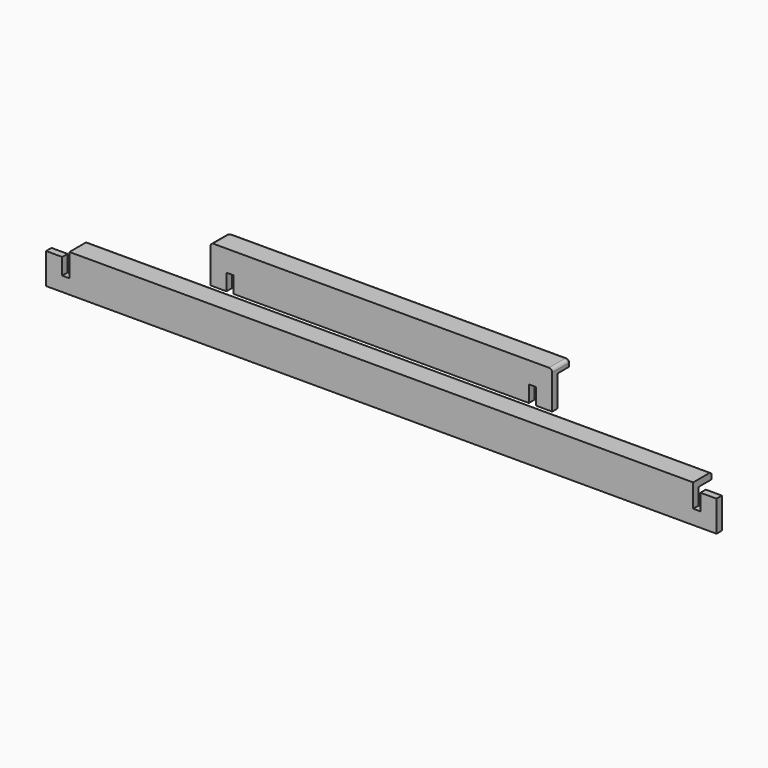
from build123d import *

# Parameters (mm, degrees)
F1_DEPTH = 1020
F2_W     = 22
F2_H     = 50
F3_DEPTH = 100
F5_DEPTH = 520
F6_W     = 22
F6_H     = 50
F7_DEPTH = 20.5
F9_R     = 10
F10_R    = 10


with BuildPart() as f1:
    # F0 (on Right) → F1 (new body)
    with BuildSketch(Plane.YZ):
        Polygon((70.25, 0), (0, 0), (0, -114.5), (20.5, -114.5), (20.5, -20.5), (70.25, -20.5), align=None)
    extrude(amount=F1_DEPTH)

    # F2 (on face) → F3 (cut)
    with BuildSketch(Plane(origin=(0, 70.25, 0), x_dir=(-1, 0, 0), z_dir=(0, 1, 0))):
        Polygon((-1020, 0), (-1020, -20.5), (-971, -20.5), (-949, -20.5), (-949, 0), align=None)
        with Locations((-960, -45.5)):
            Rectangle(F2_W, F2_H)
    extrude(amount=-F3_DEPTH, mode=Mode.SUBTRACT)

    # F4: F1 across plane


with BuildPart() as f1_1:
    add(f1.part)
    add(f1.part.mirror(Plane.YZ))

    # F9
    f9_edges = [f1_1.edges().sort_by_distance(p)[0] for p in [
        (0, 70.25, 0),
    ]]
    fillet(f9_edges, radius=F9_R)


with BuildPart() as f5:
    # F0 (on Right) → F5 (new body)
    with BuildSketch(Plane.YZ):
        Polygon((70.25, 164.5), (0, 164.5), (0, 50), (20.5, 50), (20.5, 144), (70.25, 144), align=None)
    extrude(amount=F5_DEPTH)

    # F6 (on face) → F7 (cut, through all)
    with BuildSketch(Plane(origin=(0, 20.5, 0), x_dir=(-1, 0, 0), z_dir=(0, 1, 0))):
        with Locations((-460, 75)):
            Rectangle(F6_W, F6_H)
    extrude(amount=-F7_DEPTH, mode=Mode.SUBTRACT)

    # F8: F5 across face


with BuildPart() as f5_1:
    add(f5.part)
    add(f5.part.mirror(Plane.YZ))

    # F10
    f10_edges = [f5_1.edges().sort_by_distance(p)[0] for p in [
        (0, 70.25, 164.5),
        (-520, 35.125, 164.5),
        (-520, 70.25, 154.25),
        (520, 35.125, 164.5),
        (520, 70.25, 154.25),
    ]]
    fillet(f10_edges, radius=F10_R)


solid = Compound([f1_1.part, f5_1.part])
